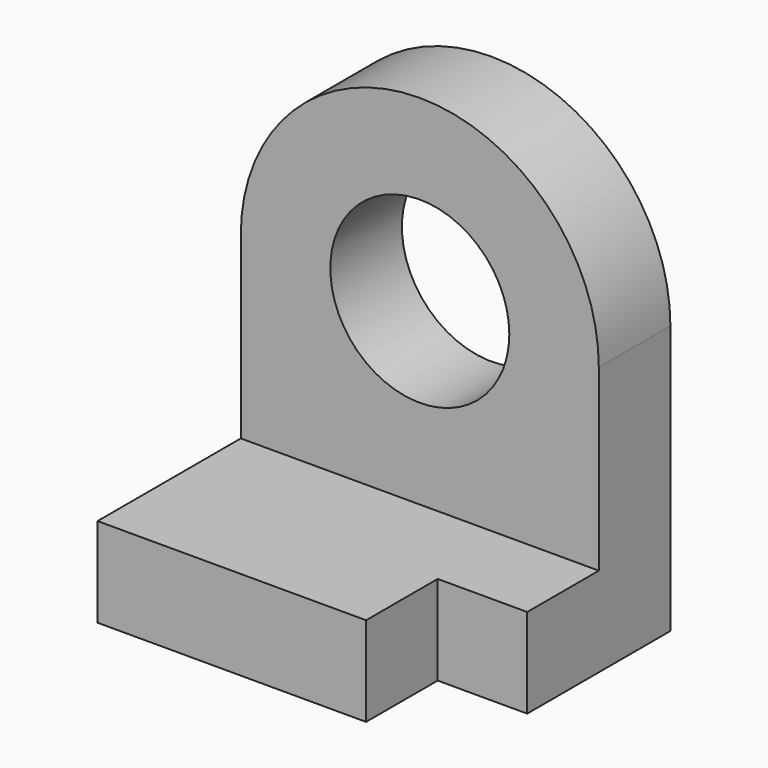
from build123d import *

# Parameters (mm, degrees)
F0_W     = 50.8
F0_H     = 38.1
F1_DEPTH = 6.35
F2_W     = 50.8
F2_H     = 12.7
F3_DEPTH = 63.5
F4_R     = 12.7
F5_DEPTH = 25.4
F7_DEPTH = 25.4
F8_W     = 12.7
F8_H     = 12.7
F9_DEPTH = 25.4


with BuildPart() as f1:
    # F0 (on Top) → F1 (new body, symmetric)
    with BuildSketch(Plane.XY):
        Rectangle(F0_W, F0_H)
    extrude(amount=F1_DEPTH, both=True)

    # F2 (on face) → F3 (join)
    with BuildSketch(Plane.XY.offset(6.35)):
        with Locations((0, 12.7)):
            Rectangle(F2_W, F2_H)
    extrude(amount=F3_DEPTH)

    # F4 (on face) → F5 (cut)
    with BuildSketch(Plane.XZ.offset(-6.35)):
        with Locations((0, 31.75)):
            Circle(F4_R)
    extrude(amount=-F5_DEPTH, mode=Mode.SUBTRACT)

    # F6 (on face) → F7 (cut)
    with BuildSketch(Plane.XZ.offset(-6.35)):
        with BuildLine():
            ThreePointArc((-25.4, 31.75), (0, 57.15), (25.4, 31.75))
            Line((25.4, 31.75), (25.4, 69.85))
            Line((25.4, 69.85), (-25.4, 69.85))
            Line((-25.4, 69.85), (-25.4, 31.75))
        make_face()
    extrude(amount=-F7_DEPTH, mode=Mode.SUBTRACT)

    # F8 (on face) → F9 (cut)
    with BuildSketch(Plane.XY.offset(6.35)):
        with Locations((19.05, -12.7)):
            Rectangle(F8_W, F8_H)
    extrude(amount=-F9_DEPTH, mode=Mode.SUBTRACT)


solid = f1.part
